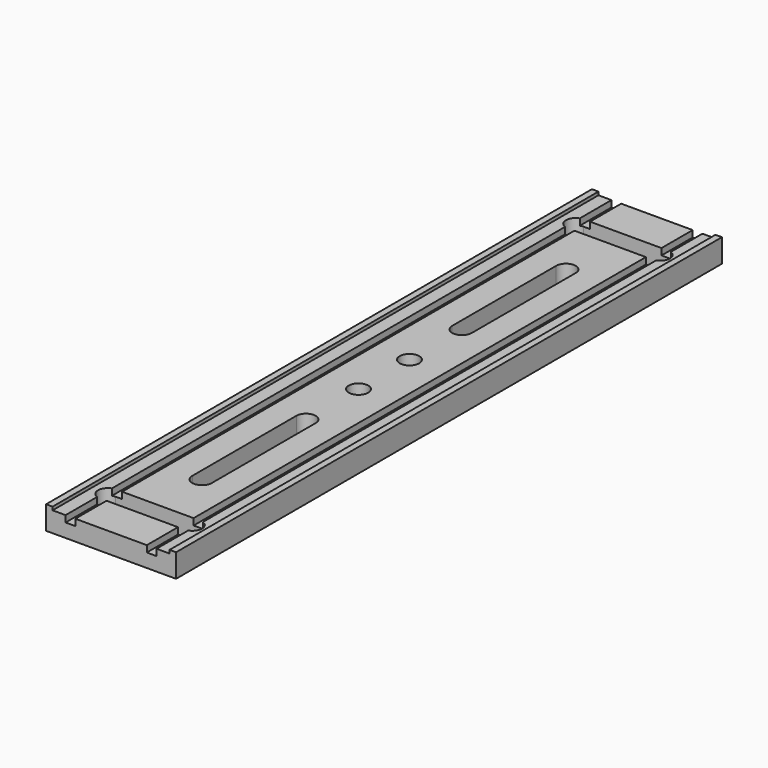
from build123d import *

# Parameters (mm, degrees)
F0_W     = 20
F0_H     = 105
F1_DEPTH = 3.1
F2_W     = 1
F2_H     = 105
F3_DEPTH = 0.5
F4_R     = 1.5
F5_DEPTH = 3.101
F6_W     = 1.5
F6_H     = 105
F7_DEPTH = 1


with BuildPart() as f1:
    # F0 (on Top) → F1 (new body)
    with BuildSketch(Plane.XY):
        with Locations((10, 52.5)):
            Rectangle(F0_W, F0_H)
    extrude(amount=F1_DEPTH)

    # F2 (on face) → F3 (join)
    with BuildSketch(Plane.XY.offset(3.1)):
        with Locations((19.5, 52.5)):
            Rectangle(F2_W, F2_H)
        with Locations((0.5, 52.5)):
            Rectangle(F2_W, F2_H)
    extrude(amount=F3_DEPTH)

    # F4 (on face) → F5 (cut, through all)
    with BuildSketch(Plane.XY.offset(3.1)):
        with BuildLine():
            Line((16.5, 9), (3.5, 9))
            ThreePointArc((3.5, 9), (2, 7.5), (3.5, 6))
            Line((3.5, 6), (16.5, 6))
            ThreePointArc((16.5, 6), (18, 7.5), (16.5, 9))
        make_face()
        with BuildLine():
            Line((8.5, 37.5), (8.5, 17.5))
            ThreePointArc((8.5, 17.5), (10, 16), (11.5, 17.5))
            Line((11.5, 17.5), (11.5, 37.5))
            ThreePointArc((11.5, 37.5), (10, 39), (8.5, 37.5))
        make_face()
        with Locations((10, 47.6)):
            Circle(F4_R)
        with BuildLine():
            Line((16.5, 99), (3.5, 99))
            ThreePointArc((3.5, 99), (2, 97.5), (3.5, 96))
            Line((3.5, 96), (16.5, 96))
            ThreePointArc((16.5, 96), (18, 97.5), (16.5, 99))
        make_face()
        with BuildLine():
            Line((11.5, 67.5), (11.5, 87.5))
            ThreePointArc((11.5, 87.5), (10, 89), (8.5, 87.5))
            Line((8.5, 87.5), (8.5, 67.5))
            ThreePointArc((8.5, 67.5), (10, 66), (11.5, 67.5))
        make_face()
        with Locations((10, 57.4)):
            Circle(F4_R)
    extrude(amount=-F5_DEPTH, mode=Mode.SUBTRACT)

    # F6 (on face) → F7 (cut)
    with BuildSketch(Plane.XY.offset(3.1)):
        with Locations((3.75, 52.5)):
            Rectangle(F6_W, F6_H)
        with Locations((16.25, 52.5)):
            Rectangle(F6_W, F6_H)
    extrude(amount=-F7_DEPTH, mode=Mode.SUBTRACT)


solid = f1.part
